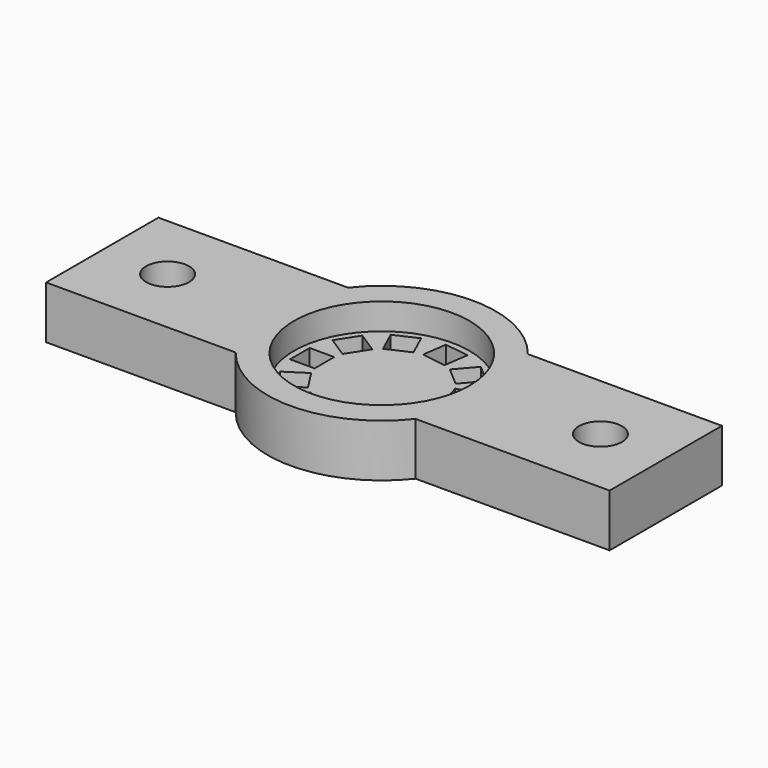
from build123d import *

# Parameters (mm, degrees)
F0_R     = 2.45
F1_DEPTH = 6
F2_R     = 10
F3_DEPTH = 3
F4_W     = 2.8
F4_H     = 2.8
F5_DEPTH = 3.001


with BuildPart() as f1:
    # F0 (on Top) → F1 (new body)
    with BuildSketch(Plane.XY):
        with BuildLine():
            ThreePointArc((10.246951, -8), (12.292485, -4.230227), (13, 0))
            ThreePointArc((13, 0), (12.292485, 4.230227), (10.246951, 8))
            ThreePointArc((10.246951, 8), (0, 13), (-10.246951, 8))
            ThreePointArc((-10.246951, 8), (-13, 0), (-10.246951, -8))
            ThreePointArc((-10.246951, -8), (0, -13), (10.246951, -8))
        make_face()
        with BuildLine():
            ThreePointArc((10.246951, 8), (12.292485, 4.230227), (13, 0))
            ThreePointArc((13, 0), (12.292485, -4.230227), (10.246951, -8))
            Line((10.246951, -8), (32.370236, -8))
            Line((32.370236, -8), (32.370236, 8))
            Line((32.370236, 8), (10.246951, 8))
        make_face()
        with Locations((24.920236, 0)):
            Circle(F0_R, mode=Mode.SUBTRACT)
        with BuildLine():
            ThreePointArc((-10.246951, -8), (-13, 0), (-10.246951, 8))
            Line((-10.246951, 8), (-31.858318, 8))
            Line((-31.858318, 8), (-31.858318, -8))
            Line((-31.858318, -8), (-10.246951, -8))
        make_face()
        with Locations((-24.408318, 0)):
            Circle(F0_R, mode=Mode.SUBTRACT)
    extrude(amount=F1_DEPTH)

    # F2 (on face) → F3 (cut)
    with BuildSketch(Plane.XY.offset(6)):
        Circle(F2_R)
    extrude(amount=-F3_DEPTH, mode=Mode.SUBTRACT)

    # F4 (on face) → F5 (cut, through all)
    with BuildSketch(Plane.XY.offset(3)):
        with Locations((-7.84869, -0.110486)):
            Rectangle(F4_W, F4_H)
        Polygon((-4.609375, -4.756964), (-6.123169, -2.401454), (-8.478679, -3.915248), (-6.964885, -6.270758), align=None)
        Polygon((-1.306867, -6.493666), (-3.853836, -5.330504), (-5.016998, -7.877474), (-2.470029, -9.040636), align=None)
        Polygon((2.410312, -6.169202), (-0.361188, -6.567683), (0.037294, -9.339184), (2.808794, -8.940702), align=None)
        Polygon((5.361984, -3.886587), (3.245885, -5.720197), (5.079495, -7.836296), (7.195594, -6.002685), align=None)
        Polygon((6.611013, -0.370534), (5.822162, -3.057115), (8.508742, -3.845966), (9.297593, -1.159386), align=None)
        Polygon((5.760842, 3.262633), (6.549693, 0.576053), (9.236273, 1.364904), (8.447422, 4.051484), align=None)
        Polygon((3.081393, 5.859411), (5.197492, 4.025801), (7.031102, 6.141899), (4.915004, 7.975509), align=None)
        Polygon((-0.576626, 6.59534), (2.194874, 6.196858), (2.593356, 8.968358), (-0.178144, 9.36684), align=None)
        Polygon((-4.051821, 5.236769), (-1.504851, 6.399931), (-2.668013, 8.9469), (-5.214983, 7.783738), align=None)
        Polygon((-6.240842, 2.215033), (-4.727048, 4.570543), (-7.082557, 6.084338), (-8.596352, 3.728828), align=None)
    extrude(amount=-F5_DEPTH, mode=Mode.SUBTRACT)


solid = f1.part
